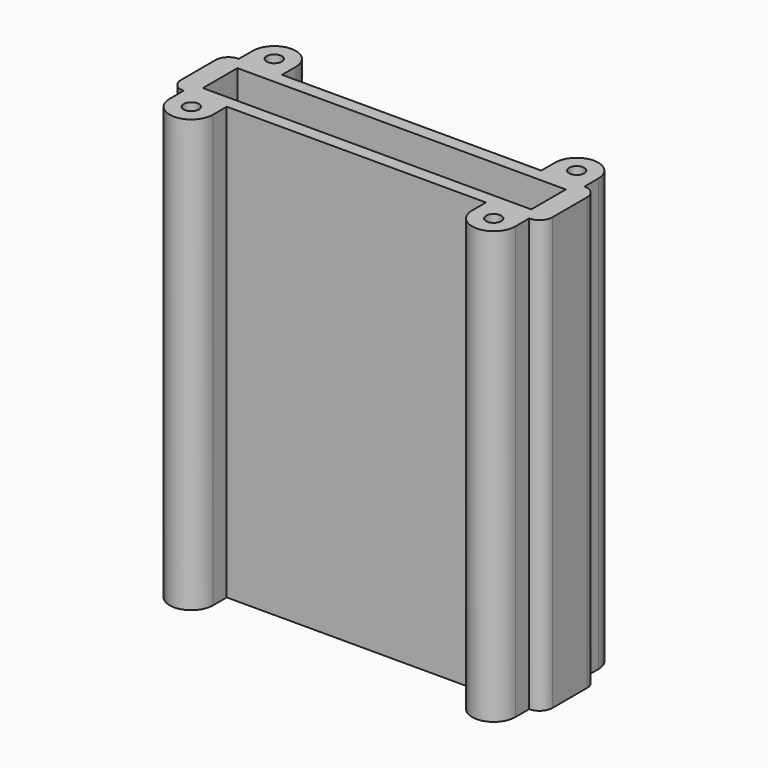
from build123d import *

# Parameters (mm, degrees)
F1_W     = 76
F1_H     = 10
F2_DEPTH = 5
F0_W     = 76.025635
F0_H     = 10
F3_DEPTH = 100


with BuildPart() as f2:
    # F1 (on Top) → F2 (new body)
    with BuildSketch(Plane.XY):
        Rectangle(F1_W, F1_H)
    extrude(amount=F2_DEPTH)

    # F0 (on Top) → F3 (join)
    with BuildSketch(Plane.XY):
        with BuildLine():
            ThreePointArc((43, 5), (42.12132, 7.12132), (40, 8))
            Line((40, 8), (30, 8))
            Line((30, 8), (-30, 8))
            Line((-30, 8), (-40, 8))
            ThreePointArc((-40, 8), (-42.12132, 7.12132), (-43, 5))
            Line((-43, 5), (-43, -5))
            ThreePointArc((-43, -5), (-42.12132, -7.12132), (-40, -8))
            Line((-40, -8), (-30, -8))
            Line((-30, -8), (30, -8))
            Line((30, -8), (40, -8))
            ThreePointArc((40, -8), (42.12132, -7.12132), (43, -5))
            Line((43, -5), (43, 5))
        make_face()
        with Locations((0.075947, 0)):
            Rectangle(F0_W, F0_H, mode=Mode.SUBTRACT)
        with BuildLine():
            Line((30, 8), (40, 8))
            Line((40, 8), (40, 12))
            Line((40, 12), (36.75, 12))
            ThreePointArc((36.75, 12), (35, 10.25), (33.25, 12))
            Line((33.25, 12), (30, 12))
            Line((30, 12), (30, 8))
        make_face()
        with BuildLine():
            Line((36.75, 12), (40, 12))
            ThreePointArc((40, 12), (35, 17), (30, 12))
            Line((30, 12), (33.25, 12))
            ThreePointArc((33.25, 12), (35, 13.75), (36.75, 12))
        make_face()
        with BuildLine():
            Line((-40, 8), (-30, 8))
            Line((-30, 8), (-30, 12))
            Line((-30, 12), (-33.25, 12))
            ThreePointArc((-33.25, 12), (-35, 10.25), (-36.75, 12))
            Line((-36.75, 12), (-40, 12))
            Line((-40, 12), (-40, 8))
        make_face()
        with BuildLine():
            Line((-33.25, 12), (-30, 12))
            ThreePointArc((-30, 12), (-35, 17), (-40, 12))
            Line((-40, 12), (-36.75, 12))
            ThreePointArc((-36.75, 12), (-35, 13.75), (-33.25, 12))
        make_face()
        with BuildLine():
            Line((40, -12), (40, -8))
            Line((40, -8), (30, -8))
            Line((30, -8), (30, -12))
            Line((30, -12), (33.25, -12))
            ThreePointArc((33.25, -12), (35, -10.25), (36.75, -12))
            Line((36.75, -12), (40, -12))
        make_face()
        with BuildLine():
            ThreePointArc((30, -12), (35, -17), (40, -12))
            Line((40, -12), (36.75, -12))
            ThreePointArc((36.75, -12), (35, -13.75), (33.25, -12))
            Line((33.25, -12), (30, -12))
        make_face()
        with BuildLine():
            Line((-30, -12), (-30, -8))
            Line((-30, -8), (-40, -8))
            Line((-40, -8), (-40, -12))
            Line((-40, -12), (-36.75, -12))
            ThreePointArc((-36.75, -12), (-35, -10.25), (-33.25, -12))
            Line((-33.25, -12), (-30, -12))
        make_face()
        with BuildLine():
            ThreePointArc((-40, -12), (-35, -17), (-30, -12))
            Line((-30, -12), (-33.25, -12))
            ThreePointArc((-33.25, -12), (-35, -13.75), (-36.75, -12))
            Line((-36.75, -12), (-40, -12))
        make_face()
    extrude(amount=F3_DEPTH)


solid = f2.part
